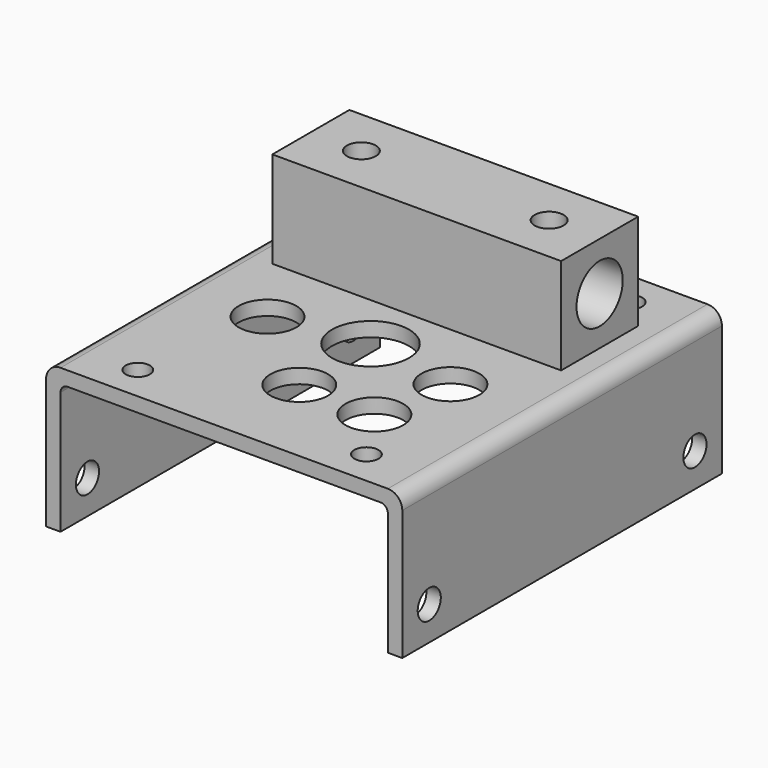
from build123d import *

# Parameters (mm, degrees)
F1_DEPTH  = 83
F2_R      = 2.5
F3_DEPTH  = 30.001
F4_R      = 8
F4_R_2    = 6
F5_DEPTH  = 30.001
F6_R      = 3
F7_DEPTH  = 74.001
F8_W      = 60
F8_H      = 20
F9_DEPTH  = 20
F10_R     = 6
F11_DEPTH = 67.001
F12_R     = 3
F13_DEPTH = 4.8048476773


with BuildPart() as f1:
    # F0 (on Front) → F1 (new body)
    with BuildSketch(Plane.XZ):
        with BuildLine():
            Line((0, 27), (0, 0))
            Line((0, 0), (3, 0))
            Line((3, 0), (3, 25.5))
            ThreePointArc((3, 25.5), (3.4393398282, 26.5606601718), (4.5, 27))
            Line((4.5, 27), (69.5, 27))
            ThreePointArc((69.5, 27), (70.5606601718, 26.5606601718), (71, 25.5))
            Line((71, 25.5), (71, 0))
            Line((71, 0), (74, 0))
            Line((74, 0), (74, 27))
            ThreePointArc((74, 27), (73.1213203436, 29.1213203436), (71, 30))
            Line((71, 30), (3, 30))
            ThreePointArc((3, 30), (0.8786796564, 29.1213203436), (0, 27))
        make_face()
    extrude(amount=F1_DEPTH)

    # F2 (on face) → F3 (cut, through all)
    with BuildSketch(Plane.XY.offset(30)):
        with Locations((13.25, -7.25)):
            Circle(F2_R)
        with Locations((60.75, -7.25)):
            Circle(F2_R)
        with Locations((60.75, -75.75)):
            Circle(F2_R)
        with Locations((13.25, -75.75)):
            Circle(F2_R)
    extrude(amount=-F3_DEPTH, mode=Mode.SUBTRACT)

    # F4 (on face) → F5 (cut, through all)
    with BuildSketch(Plane.XY.offset(30)):
        with Locations((37, -45)):
            Circle(F4_R)
        with Locations((56, -48)):
            Circle(F4_R_2)
        with Locations((53, -64)):
            Circle(F4_R_2)
        with Locations((37, -63.5)):
            Circle(F4_R_2)
        with Locations((18, -48)):
            Circle(F4_R_2)
    extrude(amount=-F5_DEPTH, mode=Mode.SUBTRACT)

    # F6 (on face) → F7 (cut, through all)
    with BuildSketch(Plane(origin=(0, 0, 0), x_dir=(0, -1, 0), z_dir=(-1, 0, 0))):
        with Locations((7, 7)):
            Circle(F6_R)
        with Locations((76, 7)):
            Circle(F6_R)
    extrude(amount=-F7_DEPTH, mode=Mode.SUBTRACT)

    # F8 (on face) → F9 (join)
    with BuildSketch(Plane.XY.offset(30)):
        with Locations((37, -23)):
            Rectangle(F8_W, F8_H)
    extrude(amount=F9_DEPTH)

    # F10 (on face) → F11 (cut, through all)
    with BuildSketch(Plane(origin=(7, 0, 0), x_dir=(0, -1, 0), z_dir=(-1, 0, 0))):
        with Locations((23, 40)):
            Circle(F10_R)
    extrude(amount=-F11_DEPTH, mode=Mode.SUBTRACT)

    # F12 (on face) → F13 (cut, through all)
    with BuildSketch(Plane.XY.offset(50)):
        with Locations((17.5, -23)):
            Circle(F12_R)
        with Locations((56.5, -23)):
            Circle(F12_R)
    extrude(amount=-F13_DEPTH, mode=Mode.SUBTRACT)


solid = f1.part
